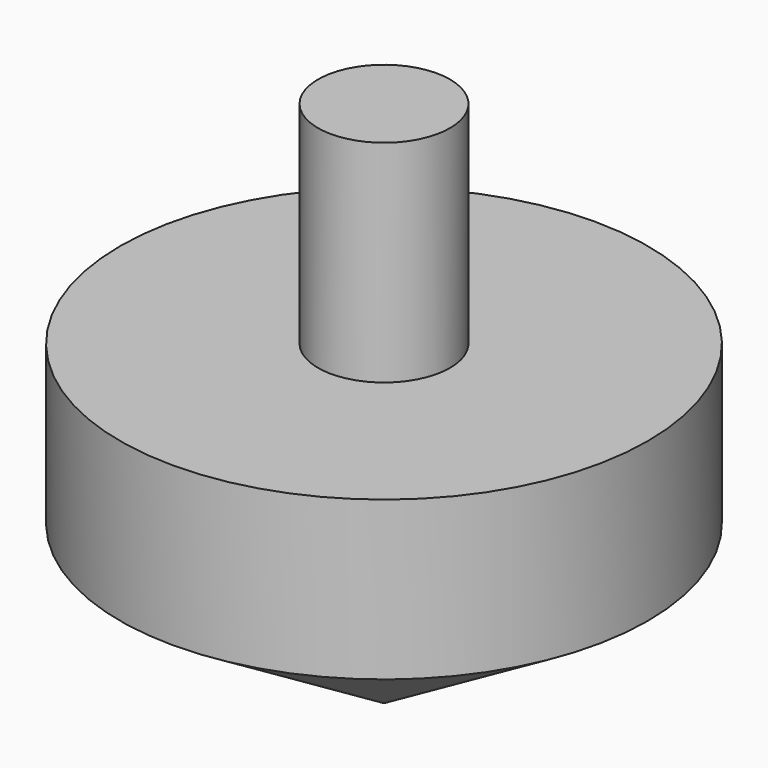
from build123d import *

# Parameters (mm, degrees)
F0_R     = 12.7
F1_DEPTH = 15.24
F2_SIZE2 = 12.7
F2_SIZE  = 7.62
F4_R     = 3.175
F5_R     = 3.175


with BuildPart() as f1:
    # F0 (on Top) → F1 (new body)
    with BuildSketch(Plane.XY):
        with Locations((-52.3585453629, 15.3619199991)):
            Circle(F0_R)
    extrude(amount=F1_DEPTH)

    # F2
    f2_edges = [f1.edges().sort_by_distance(p)[0] for p in [
        (-65.058545, 15.36192, 0),
    ]]
    f2_side = f1.faces().sort_by_distance((-65.058545, 15.36192, 7.62))[0]
    chamfer(f2_edges, length=F2_SIZE, length2=F2_SIZE2, reference=f2_side)

    # F4 (on face) → F6 section 0
    with BuildSketch(Plane.XY.offset(15.24)):
        with Locations((-52.3585453629, 15.3619199991)):
            Circle(F4_R)
    # F5 (on offset) → F6 section 1
    with BuildSketch(Plane.XY.offset(25.4)):
        with Locations((-52.3585453629, 15.3619199991)):
            Circle(F5_R)
    loft()


solid = f1.part
